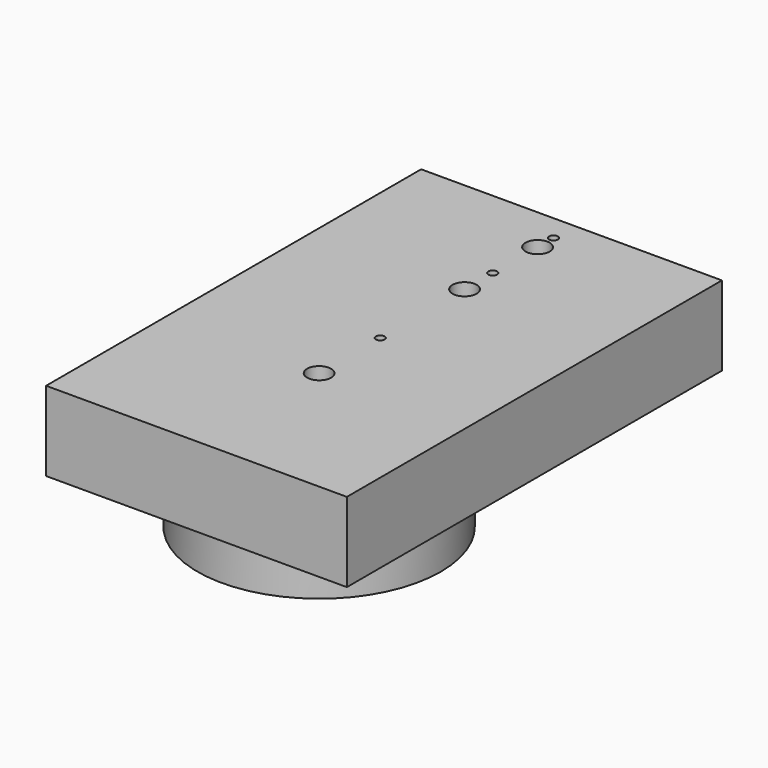
from build123d import *

# Parameters (mm, degrees)
F0_R     = 5
F0_R_2   = 2.032
F0_R_3   = 0.734822
F0_R_4   = 10
F0_R_5   = 0.735279
F0_R_6   = 20.5
F1_DEPTH = 9.398
F0_W     = 50.704023
F0_H     = 79.026176
F2_DEPTH = 13.3985


with BuildPart() as f1:
    # F0 (on Top) → F1 (new body)
    with BuildSketch(Plane.XY):
        with Locations((0, 15.387594)):
            Circle(F0_R)
        with Locations((0, 15.387594)):
            Circle(F0_R_2, mode=Mode.SUBTRACT)
        with Locations((0, 18.741826)):
            Circle(F0_R_3, mode=Mode.SUBTRACT)
        Circle(F0_R_4)
        Circle(F0_R_2, mode=Mode.SUBTRACT)
        with Locations((0, 5.935069)):
            Circle(F0_R_5, mode=Mode.SUBTRACT)
        with Locations((0, -30.643531)):
            Circle(F0_R_6)
        with Locations((0, -30.643531)):
            Circle(F0_R_2, mode=Mode.SUBTRACT)
        with Locations((0, -17.768558)):
            Circle(F0_R_3, mode=Mode.SUBTRACT)
    extrude(amount=-F1_DEPTH)


with BuildPart() as f2:
    # F0 (on Top) → F2 (new body)
    with BuildSketch(Plane.XY):
        with Locations((-0.482173, -16.37352)):
            Rectangle(F0_W, F0_H)
        with Locations((0, -30.643531)):
            Circle(F0_R_6, mode=Mode.SUBTRACT)
        Circle(F0_R_4, mode=Mode.SUBTRACT)
        with Locations((0, 15.387594)):
            Circle(F0_R, mode=Mode.SUBTRACT)
        Circle(F0_R_4)
        Circle(F0_R_2, mode=Mode.SUBTRACT)
        with Locations((0, 5.935069)):
            Circle(F0_R_5, mode=Mode.SUBTRACT)
        with Locations((0, -30.643531)):
            Circle(F0_R_6)
        with Locations((0, -30.643531)):
            Circle(F0_R_2, mode=Mode.SUBTRACT)
        with Locations((0, -17.768558)):
            Circle(F0_R_3, mode=Mode.SUBTRACT)
        with Locations((0, 15.387594)):
            Circle(F0_R)
        with Locations((0, 15.387594)):
            Circle(F0_R_2, mode=Mode.SUBTRACT)
        with Locations((0, 18.741826)):
            Circle(F0_R_3, mode=Mode.SUBTRACT)
    extrude(amount=F2_DEPTH)


solid = Compound([f1.part, f2.part])
